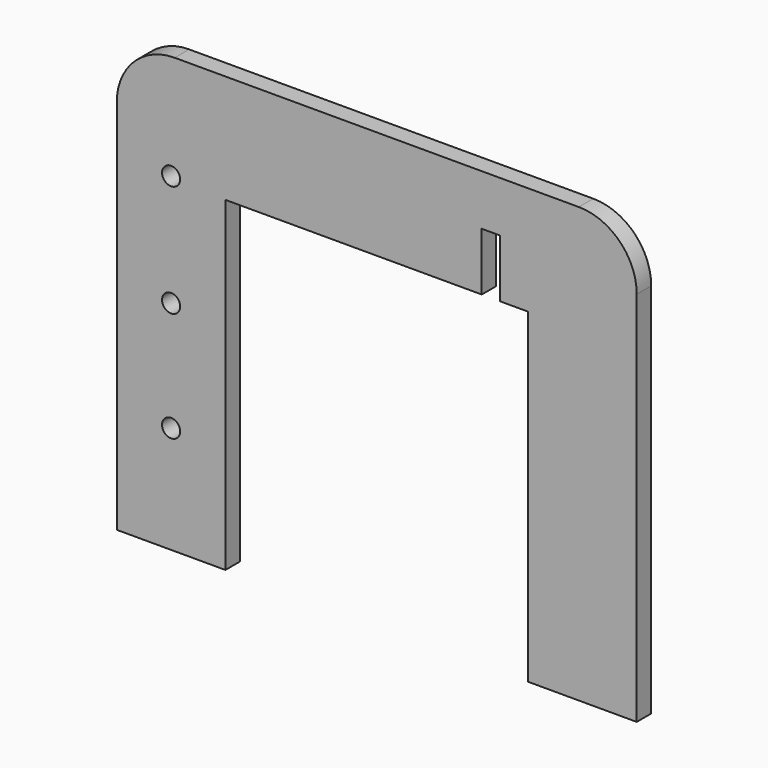
from build123d import *

# Parameters (mm, degrees)
F0_R     = 1.5875
F1_DEPTH = 3.175


with BuildPart() as f1:
    # F0 (on Front) → F1 (new body)
    with BuildSketch(Plane.XZ):
        with BuildLine():
            Line((-45.703146, 7.703695), (-45.703146, -49.446305))
            Line((-45.703146, -49.446305), (-26.653146, -49.446305))
            Line((-26.653146, -49.446305), (-26.653146, 16.593695))
            ThreePointArc((-26.653146, 16.593695), (-29.628941, 23.7779), (-36.813146, 26.753695))
            Line((-36.813146, 26.753695), (-45.703146, 26.753695))
            Line((-45.703146, 26.753695), (-107.68587, 26.753695))
            ThreePointArc((-107.68587, 26.753695), (-113.98265, 24.567161), (-117.56917, 18.948688))
            ThreePointArc((-117.56917, 18.948688), (-117.776458, 17.779291), (-117.84587, 16.593695))
            Line((-117.84587, 16.593695), (-117.84587, 7.703695))
            Line((-117.84587, 7.703695), (-117.84587, -49.446305))
            Line((-117.84587, -49.446305), (-98.79587, -49.446305))
            Line((-98.79587, -49.446305), (-98.79587, 7.703695))
            Line((-98.79587, 7.703695), (-53.83787, 7.703695))
            Line((-53.83787, 7.703695), (-53.83787, 17.863695))
            Line((-53.83787, 17.863695), (-50.66287, 17.863695))
            Line((-50.66287, 17.863695), (-50.66287, 7.703695))
            Line((-50.66287, 7.703695), (-45.703146, 7.703695))
        make_face()
        with Locations((-108.32087, -30.639023)):
            Circle(F0_R, mode=Mode.SUBTRACT)
        with Locations((-108.32087, -11.346305)):
            Circle(F0_R, mode=Mode.SUBTRACT)
        with Locations((-108.32087, 8.285769)):
            Circle(F0_R, mode=Mode.SUBTRACT)
    extrude(amount=F1_DEPTH)


solid = f1.part
